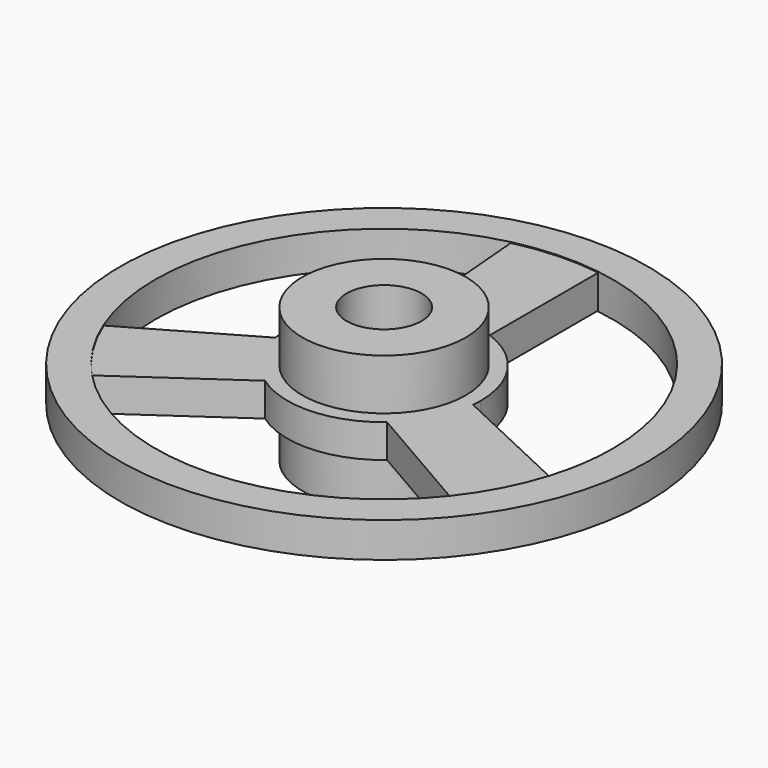
from build123d import *

# Parameters (mm, degrees)
F0_R     = 34.925
F0_R_2   = 16.002
F1_DEPTH = 28.829
F2_DEPTH = 7.112
F0_R_3   = 112.649
F3_DEPTH = 7.493


with BuildPart() as f1:
    # F0 (on Top) → F1 (new body, symmetric)
    with BuildSketch(Plane.XY):
        Circle(F0_R)
        Circle(F0_R_2, mode=Mode.SUBTRACT)
    extrude(amount=F1_DEPTH, both=True)

    # F0 (on Top) → F2 (join, symmetric)
    with BuildSketch(Plane.XY):
        with BuildLine():
            ThreePointArc((41.091917, -3.883291), (41.229204, -1.943802), (41.275, 0))
            ThreePointArc((41.275, 0), (33.800319, 23.688901), (14.083526, 38.797937))
            ThreePointArc((14.083526, 38.797937), (-1.674687, 41.241012), (-17.18293, 37.52829))
            ThreePointArc((-17.18293, 37.52829), (-36.553107, 19.170184), (-40.641762, -7.202277))
            ThreePointArc((-40.641762, -7.202277), (-34.87842, -22.070827), (-23.908987, -33.644999))
            ThreePointArc((-23.908987, -33.644999), (1.674687, -41.241012), (26.558236, -31.59566))
            ThreePointArc((26.558236, -31.59566), (36.553107, -19.170184), (41.091917, -3.883291))
        make_face()
        Circle(F0_R, mode=Mode.SUBTRACT)
        with BuildLine():
            ThreePointArc((-17.18293, 37.52829), (-1.674687, 41.241012), (14.083526, 38.797937))
            Line((14.083526, 38.797937), (14.083526, 96.642205))
            ThreePointArc((14.083526, 96.642205), (-4.052266, 97.578895), (-22.047948, 95.141734))
            Line((-22.047948, 95.141734), (-17.18293, 37.52829))
        make_face()
        with BuildLine():
            ThreePointArc((-23.908987, -33.644999), (-34.87842, -22.070827), (-40.641762, -7.202277))
            Line((-40.641762, -7.202277), (-90.736368, -36.124411))
            ThreePointArc((-90.736368, -36.124411), (-82.479669, -52.298813), (-71.371184, -66.66495))
            Line((-71.371184, -66.66495), (-23.908987, -33.644999))
        make_face()
        with BuildLine():
            Line((93.419133, -28.476784), (41.091917, -3.883291))
            ThreePointArc((41.091917, -3.883291), (36.553107, -19.170184), (26.558236, -31.59566))
            Line((26.558236, -31.59566), (76.652842, -60.517794))
            ThreePointArc((76.652842, -60.517794), (86.531935, -45.280082), (93.419133, -28.476784))
        make_face()
    extrude(amount=F2_DEPTH, both=True)

    # F0 (on Top) → F3 (join, symmetric)
    with BuildSketch(Plane.XY):
        Circle(F0_R_3)
        with BuildLine():
            ThreePointArc((-22.047948, 95.141734), (-4.052266, 97.578895), (14.083526, 96.642205))
            ThreePointArc((14.083526, 96.642205), (73.869821, 63.88514), (97.663, 0))
            ThreePointArc((97.663, 0), (96.596207, -14.395638), (93.419133, -28.476784))
            ThreePointArc((93.419133, -28.476784), (86.531935, -45.280082), (76.652842, -60.517794))
            ThreePointArc((76.652842, -60.517794), (4.052266, -97.578895), (-71.371184, -66.66495))
            ThreePointArc((-71.371184, -66.66495), (-82.479669, -52.298813), (-90.736368, -36.124411))
            ThreePointArc((-90.736368, -36.124411), (-86.531935, 45.280082), (-22.047948, 95.141734))
        make_face(mode=Mode.SUBTRACT)
    extrude(amount=F3_DEPTH, both=True)


solid = f1.part
